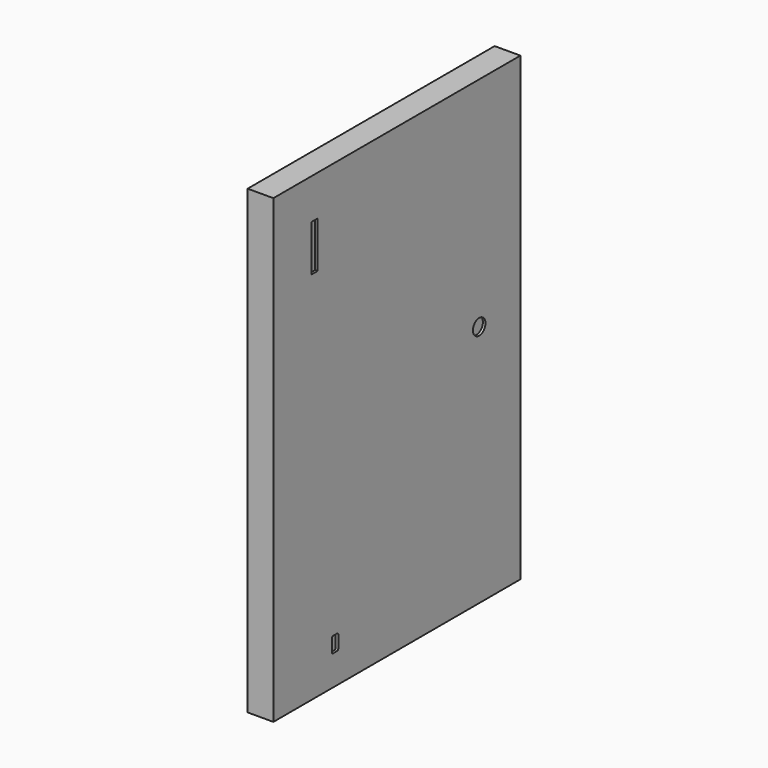
from build123d import *

# Parameters (mm, degrees)
PAD_DEPTH       = 5
SKETCH001_R     = 1.52
POCKET_DEPTH    = 0.5
SKETCH002_W     = 1.54
SKETCH002_H     = 9
POCKET001_DEPTH = 0.5
POCKET002_DEPTH = 0.5


with BuildPart() as part:
    # Sketch → Pad (new body)
    with BuildSketch(Plane.YZ):
        Polygon((0, 0), (-30, 0), (-30, 89.600318), (30, 89.600318), (30, 0), align=None)
    extrude(amount=-PAD_DEPTH)

    # Sketch001 → Pocket (cut)
    with BuildSketch(Plane.YZ):
        with Locations((20, 47.266852)):
            Circle(SKETCH001_R)
    extrude(amount=-POCKET_DEPTH, mode=Mode.SUBTRACT)

    # Sketch002 → Pocket001 (cut)
    with BuildSketch(Plane.YZ):
        with Locations((-20, 77.266852)):
            Rectangle(SKETCH002_W, SKETCH002_H)
    extrude(amount=-POCKET001_DEPTH, mode=Mode.SUBTRACT)

    # Sketch003 → Pocket002 (cut)
    with BuildSketch(Plane.YZ):
        with BuildLine():
            ThreePointArc((-15.5, 8.833466), (-15.690919, 8.754384), (-15.77, 8.563466))
            Line((-15.77, 6.103466), (-15.77, 8.563466))
            ThreePointArc((-15.77, 6.103466), (-15.690919, 5.912547), (-15.5, 5.833466))
            Line((-14.5, 5.833466), (-15.5, 5.833466))
            ThreePointArc((-14.5, 5.833466), (-14.309081, 5.912547), (-14.23, 6.103466))
            Line((-14.23, 8.563466), (-14.23, 6.103466))
            ThreePointArc((-14.23, 8.563466), (-14.309081, 8.754384), (-14.5, 8.833466))
            Line((-15.5, 8.833466), (-14.5, 8.833466))
        make_face()
    extrude(amount=-POCKET002_DEPTH, mode=Mode.SUBTRACT)


solid = part.part
